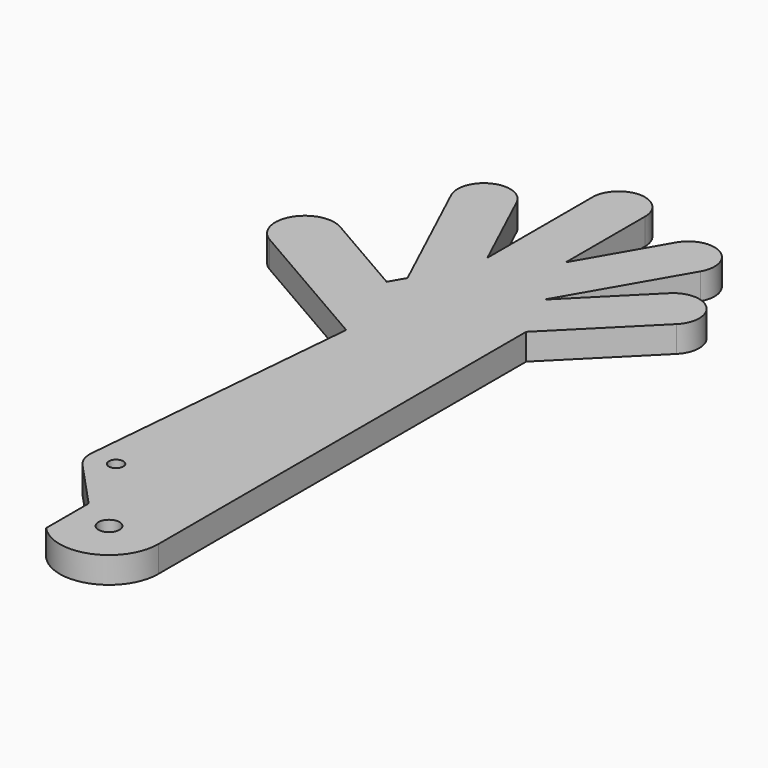
from build123d import *

# Parameters (mm, degrees)
SKETCH_R   = 1.6
SKETCH_R_2 = 1.1
PAD_DEPTH  = 4


with BuildPart() as part:
    # Sketch → Pad (new body)
    with BuildSketch(Plane.XY):
        with BuildLine():
            Line((7.5, 0), (7.5, 70))
            Line((7.5, 70), (20.227922, 82.727922))
            ThreePointArc((20.227922, 82.727922), (20.227922, 88.384776), (14.571068, 88.384776))
            Line((14.571068, 88.384776), (3.964466, 77.778175))
            Line((3.964466, 77.778175), (13.964466, 95.098683))
            ThreePointArc((13.964466, 95.098683), (12.500364, 100.562784), (7.036263, 99.098683))
            Line((0, 86.911518), (7.036263, 99.098683))
            Line((0, 86.911518), (0, 102))
            ThreePointArc((0, 102), (-4, 106), (-8, 102))
            Line((-8, 82), (-8, 102))
            Line((-14.211086, 95.319717), (-8, 82))
            ThreePointArc((-14.211086, 95.319717), (-19.52679, 97.254476), (-21.461549, 91.938771))
            Line((-12.163947, 72), (-21.461549, 91.938771))
            Line((-13.493151, 69.697751), (-12.163947, 72))
            Line((-13.493151, 69.697751), (-26.650635, 77.294229))
            ThreePointArc((-26.650635, 77.294229), (-32.797749, 75.647114), (-31.150635, 69.5))
            Line((-31.150635, 69.5), (-9.5, 57))
            Line((-13.312212, 13.348003), (-9.5, 57))
            ThreePointArc((-13.312212, 13.348003), (-13.110715, 11.701399), (-12.258507, 10.278146))
            Line((-12.258507, 10.278146), (-5.5, 3))
            Line((-5.5, 3), (-5.5, -5.09902))
            ThreePointArc((-5.5, -5.09902), (2.738613, -6.98212), (7.5, 0))
        make_face()
        Circle(SKETCH_R, mode=Mode.SUBTRACT)
        with Locations((-9.327379, 13)):
            Circle(SKETCH_R_2, mode=Mode.SUBTRACT)
    extrude(amount=PAD_DEPTH)


solid = part.part
